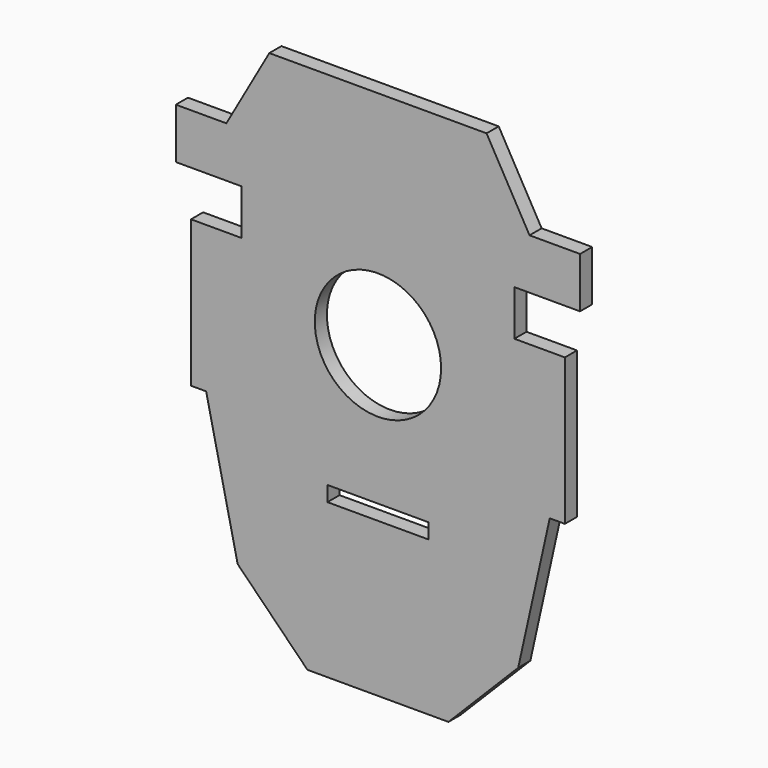
from build123d import *

# Parameters (mm, degrees)
F0_W     = 20
F0_H     = 3
F0_R     = 12.5
F1_DEPTH = 1.5


with BuildPart() as f1:
    # F0 (on Front) → F1 (new body, symmetric)
    with BuildSketch(Plane.XZ):
        Polygon((30, 22.1), (21.5, 37.1), (-21.5, 37.1), (-30, 22.1), (-40, 22.1), (-40, 12.1), (-27, 12.1), (-27, 3.1), (-37, 3.1), (-37, -25.9), (-34, -25.9), (-27.7626620175, -53.9680209211), (-13.9565678727, -67.9), (13.9565678727, -67.9), (27.7626620175, -53.9680209211), (34, -25.9), (37, -25.9), (37, 3.1), (27, 3.1), (27, 12.1), (40, 12.1), (40, 22.1), align=None)
        with Locations((0, -35.9)):
            Rectangle(F0_W, F0_H, mode=Mode.SUBTRACT)
        with Locations((0, -6.77)):
            Circle(F0_R, mode=Mode.SUBTRACT)
    extrude(amount=F1_DEPTH, both=True)


solid = f1.part
